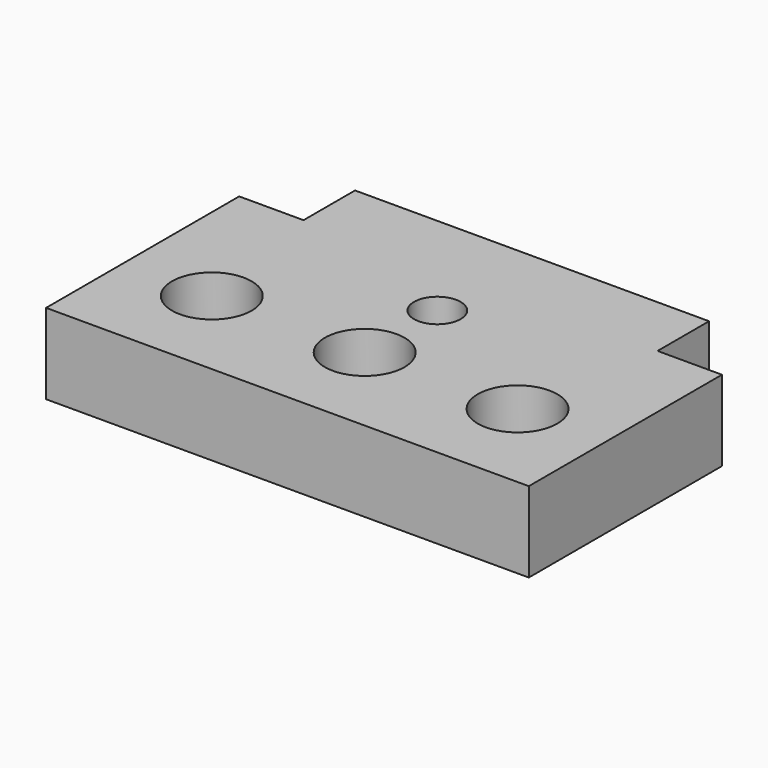
from build123d import *

# Parameters (mm, degrees)
F0_R     = 2.9
F0_W     = 44
F0_H     = 8
F1_DEPTH = 10


with BuildPart() as f1:
    # F0 (on Top) → F1 (new body)
    with BuildSketch(Plane.XY):
        with BuildLine():
            Line((23.95, -3), (30, -3))
            Line((30, -3), (30, 15))
            Line((30, 15), (22, 15))
            Line((22, 15), (-22, 15))
            Line((-22, 15), (-30, 15))
            Line((-30, 15), (-30, -3))
            Line((-30, -3), (-23.95, -3))
            ThreePointArc((-23.95, -3), (-19, 1.95), (-14.05, -3))
            Line((-14.05, -3), (-4.95, -3))
            ThreePointArc((-4.95, -3), (0, 1.95), (4.95, -3))
            Line((4.95, -3), (14.05, -3))
            ThreePointArc((14.05, -3), (19, 1.95), (23.95, -3))
        make_face()
        with Locations((0, 8.284595)):
            Circle(F0_R, mode=Mode.SUBTRACT)
        with BuildLine():
            Line((-30, -15), (30, -15))
            Line((30, -15), (30, -3))
            Line((30, -3), (23.95, -3))
            ThreePointArc((23.95, -3), (19, -7.95), (14.05, -3))
            Line((14.05, -3), (4.95, -3))
            ThreePointArc((4.95, -3), (0, -7.95), (-4.95, -3))
            Line((-4.95, -3), (-14.05, -3))
            ThreePointArc((-14.05, -3), (-19, -7.95), (-23.95, -3))
            Line((-23.95, -3), (-30, -3))
            Line((-30, -3), (-30, -15))
        make_face()
        with Locations((0, 19)):
            Rectangle(F0_W, F0_H)
    extrude(amount=F1_DEPTH)


solid = f1.part
